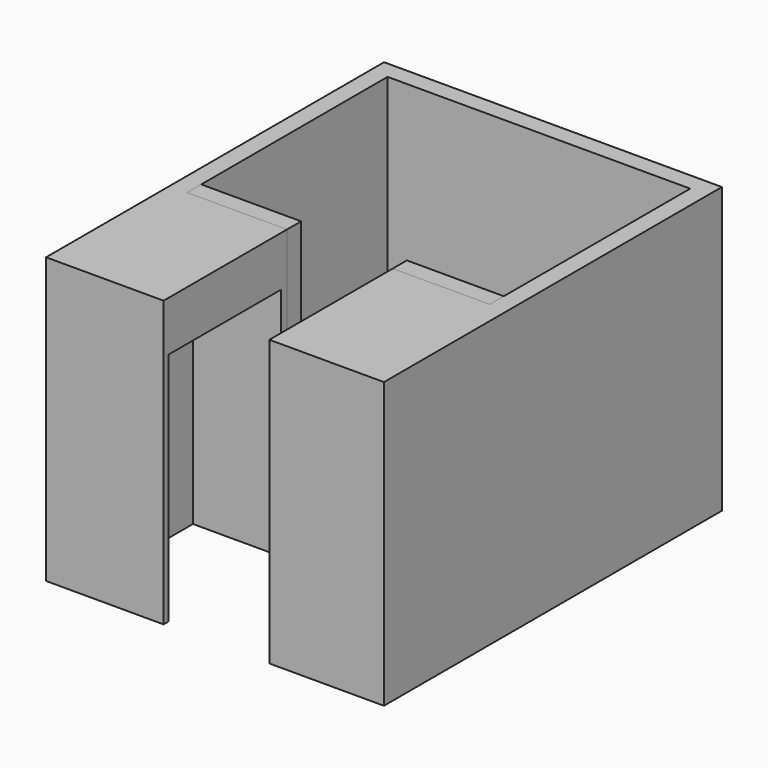
from build123d import *

# Parameters (mm, degrees)
F1_DEPTH  = 2463.8
F2_W      = 1219.2
F2_H      = 2032
F3_DEPTH  = 762
F4_W      = 1219.2
F4_H      = 2032
F5_DEPTH  = 762
F6_W      = 762
F6_H      = 558.8
F6_W_2    = 863.6
F6_H_2    = 2166.62
F6_W_3    = 508
F6_H_3    = 254
F7_DEPTH  = 914.4
F9_DEPTH  = 762
F11_DEPTH = 508
F12_W     = 838.2
F12_H     = 152.4
F12_W_2   = 863.6
F13_DEPTH = 2463.8


with BuildPart() as f1:
    # F0 (on Top) → F1 (new body)
    with BuildSketch(Plane.XY):
        Polygon((-334.8183358609, 0), (-1198.4183358609, 0), (-1198.4183358609, 2166.62), (1417.7816641391, 2166.62), (1417.7816641391, 0), (579.5816641391, 0), (579.5816641391, -1333.5), (1570.1816641391, -1333.5), (1570.1816641391, 0), (1570.1816641391, 2319.02), (-1350.8183358609, 2319.02), (-1350.8183358609, 0), (-1350.8183358609, -1333.5), (-334.8183358609, -1333.5), align=None)
    extrude(amount=F1_DEPTH)

    # F2 (on face) → F3 (cut)
    with BuildSketch(Plane.YZ.offset(-334.8183358609)):
        with Locations((-673.1, 1016)):
            Rectangle(F2_W, F2_H)
    extrude(amount=-F3_DEPTH, mode=Mode.SUBTRACT)

    # F4 (on face) → F5 (cut)
    with BuildSketch(Plane(origin=(579.5816641391, 0, 0), x_dir=(0, -1, 0), z_dir=(-1, 0, 0))):
        with Locations((673.1, 1016)):
            Rectangle(F4_W, F4_H)
    extrude(amount=-F5_DEPTH, mode=Mode.SUBTRACT)

    # F6 (on face) → F7 (join)
    with BuildSketch(Plane(origin=(0, 0, 0), x_dir=(1, 0, 0), z_dir=(0, 0, -1))):
        with Locations((1036.7816641391, -1887.22)):
            Rectangle(F6_W, F6_H)
        with Locations((-766.6183358609, -1083.31)):
            Rectangle(F6_W_2, F6_H_2)
        with Locations((88.6141725779, -2039.62)):
            Rectangle(F6_W_3, F6_H_3)
    extrude(amount=-F7_DEPTH)

    # F8 (on face) → F9 (join)
    with BuildSketch(Plane(origin=(0, 0, 0), x_dir=(1, 0, 0), z_dir=(0, 0, -1))):
        with BuildLine():
            add(Edge.make_bspline(
                [(109.6816062927, -1293.6762565613), (-286.2652083175, -1293.6762565613), (-88.2918010124, -1827.0762565613), (109.6816062927, -2360.4762565613), (307.6550135978, -1827.0762565613), (505.628420903, -1293.6762565613), (109.6816062927, -1293.6762565613)],
                knots=[0, 0, 0, 2.0943951024, 2.0943951024, 4.1887902048, 4.1887902048, 6.2831853072, 6.2831853072, 6.2831853072], degree=2, weights=[1, 0.5, 1, 0.5, 1, 0.5, 1]))
        make_face()
    extrude(amount=-F9_DEPTH)

    # F10 (on face) → F11 (cut)
    with BuildSketch(Plane.XY.offset(914.4)):
        with BuildLine():
            Line((-601.5183358609, 2085.1567547083), (-935.4930091858, 2085.1567547083))
            ThreePointArc((-935.4930091858, 2085.1567547083), (-1043.2560826386, 2040.5198281611), (-1087.8930091858, 1932.7567547083))
            Line((-1087.8930091858, 1932.7567547083), (-1087.8930091858, 408.7567547083))
            ThreePointArc((-1087.8930091858, 408.7567547083), (-1043.2560826386, 300.9936812555), (-935.4930091858, 256.3567547083))
            Line((-935.4930091858, 256.3567547083), (-601.5183358609, 256.3567547083))
            ThreePointArc((-601.5183358609, 256.3567547083), (-493.755262408, 300.9936812555), (-449.1183358609, 408.7567547083))
            Line((-449.1183358609, 408.7567547083), (-449.1183358609, 1932.7567547083))
            ThreePointArc((-449.1183358609, 1932.7567547083), (-493.755262408, 2040.5198281611), (-601.5183358609, 2085.1567547083))
        make_face()
        with BuildLine():
            add(Edge.make_bspline(
                [(1320.9720514297, 1882.7065229416), (1320.9720514297, 2234.6592470396), (863.7720514297, 2058.6828849906), (406.5720514297, 1882.7065229416), (863.7720514297, 1706.7301608926), (1320.9720514297, 1530.7537988436), (1320.9720514297, 1882.7065229416)],
                knots=[0, 0, 0, 2.0943951024, 2.0943951024, 4.1887902048, 4.1887902048, 6.2831853072, 6.2831853072, 6.2831853072], degree=2, weights=[1, 0.5, 1, 0.5, 1, 0.5, 1]))
        make_face()
    extrude(amount=-F11_DEPTH, mode=Mode.SUBTRACT)

    # F12 (on face) → F13 (join, through all)
    with BuildSketch(Plane(origin=(0, 0, 0), x_dir=(1, 0, 0), z_dir=(0, 0, -1))):
        with Locations((998.6816641391, -76.2)):
            Rectangle(F12_W, F12_H)
        with Locations((-766.6183358609, -76.2)):
            Rectangle(F12_W_2, F12_H)
    extrude(amount=-F13_DEPTH)


solid = f1.part
